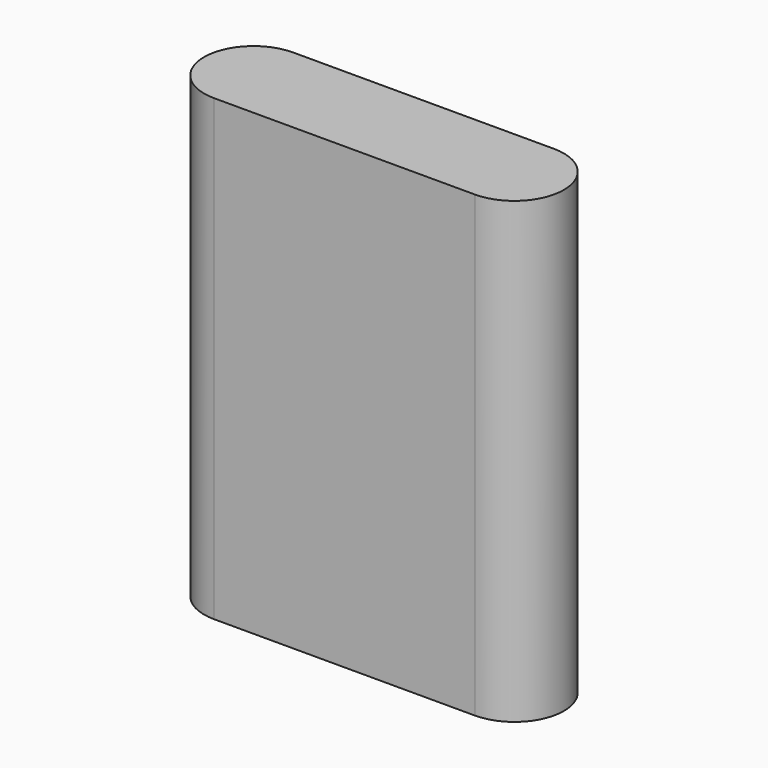
from build123d import *

# Parameters (mm, degrees)
F1_DEPTH = 51


with BuildPart() as f1:
    # F0 (on Top) → F1 (new body, symmetric)
    with BuildSketch(Plane.XY):
        with BuildLine():
            ThreePointArc((-18, 0), (-21.2218254069, 7.7781745931), (-29, 11))
            Line((-29, 11), (-29, 0))
            Line((-29, 0), (-18, 0))
        make_face()
        with BuildLine():
            Line((29, 11), (-29, 11))
            ThreePointArc((-29, 11), (-21.2218254069, 7.7781745931), (-18, 0))
            Line((-18, 0), (18, 0))
            ThreePointArc((18, 0), (21.2218254069, 7.7781745931), (29, 11))
        make_face()
        with BuildLine():
            Line((-29, 0), (-29, 11))
            ThreePointArc((-29, 11), (-40, 0), (-29, -11))
            Line((-29, -11), (-29, 0))
        make_face()
        with BuildLine():
            ThreePointArc((40, 0), (36.7781745931, 7.7781745931), (29, 11))
            Line((29, 11), (29, 0))
            Line((29, 0), (29, -11))
            ThreePointArc((29, -11), (36.7781745931, -7.7781745931), (40, 0))
        make_face()
        with BuildLine():
            Line((29, 0), (29, 11))
            ThreePointArc((29, 11), (21.2218254069, 7.7781745931), (18, 0))
            Line((18, 0), (29, 0))
        make_face()
        with BuildLine():
            Line((-18, 0), (-29, 0))
            Line((-29, 0), (-29, -11))
            ThreePointArc((-29, -11), (-21.2218254069, -7.7781745931), (-18, 0))
        make_face()
        with BuildLine():
            Line((18, 0), (-18, 0))
            ThreePointArc((-18, 0), (-21.2218254069, -7.7781745931), (-29, -11))
            Line((-29, -11), (29, -11))
            ThreePointArc((29, -11), (21.2218254069, -7.7781745931), (18, 0))
        make_face()
        with BuildLine():
            Line((29, -11), (29, 0))
            Line((29, 0), (18, 0))
            ThreePointArc((18, 0), (21.2218254069, -7.7781745931), (29, -11))
        make_face()
    extrude(amount=F1_DEPTH, both=True)


solid = f1.part
